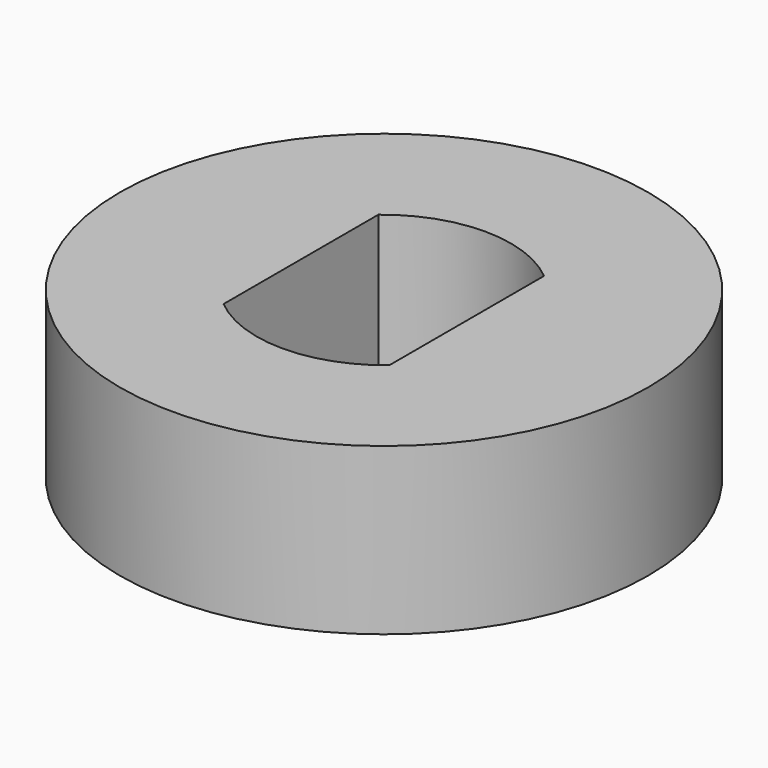
from build123d import *

# Parameters (mm, degrees)
F0_R     = 4.78
F1_DEPTH = 3


with BuildPart() as f1:
    # F0 (on Top) → F1 (new body)
    with BuildSketch(Plane.XY):
        with Locations((0, -1.897358)):
            Circle(F0_R)
        with BuildLine():
            Line((-1.5, -3.651894), (-1.5, -0.151894))
            ThreePointArc((-1.5, -0.151894), (0, 0.390902), (1.5, -0.151894))
            Line((1.5, -0.151894), (1.5, -3.651894))
            ThreePointArc((1.5, -3.651894), (0, -4.19469), (-1.5, -3.651894))
        make_face(mode=Mode.SUBTRACT)
    extrude(amount=F1_DEPTH)


solid = f1.part
